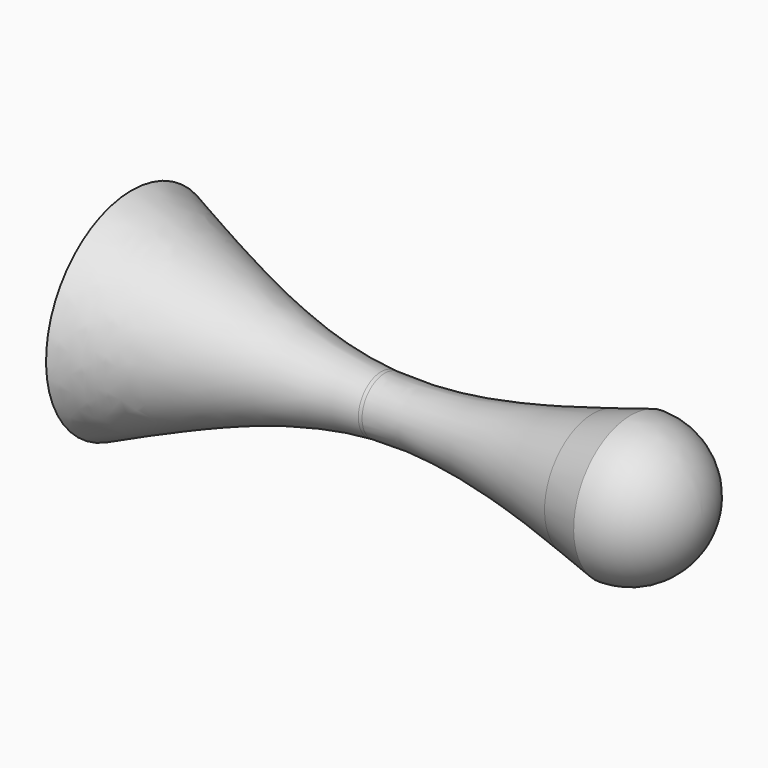
from build123d import *


with BuildPart() as f4:
    # F3 (on line) → F4 (revolve)
    with BuildSketch(Plane.XZ):
        with BuildLine():
            Line((-35, 21.3333358431), (-20, 21.3333358431))
            ThreePointArc((-20, 21.3333358431), (-21.0796887475, 26.9212634227), (-24.163324618, 31.7047613317))
            add(Edge.make_bspline(
                [(-24.163324618, 31.7047613317), (-27.7784521793, 33.1613796077), (-31.3892260896, 34.7473577254), (-35, 36.3333358431)],
                knots=[0.8433415755, 0.8433415755, 0.8433415755, 0.8433415755, 1, 1, 1, 1], degree=3))
            Line((-35, 36.3333358431), (-35, 21.3333358431))
        make_face()
        with BuildLine():
            Line((-20, 21.3333358431), (-4, 21.3333358431))
            ThreePointArc((-4, 21.3333358431), (-2.8284271247, 24.1617629679), (0, 25.3333358431))
            add(Edge.make_bspline(
                [(0, 25.3333358431), (-8.1075095608, 25.880336522), (-16.1461229596, 28.4744458698), (-24.163324618, 31.7047613317)],
                knots=[0.4959230795, 0.4959230795, 0.4959230795, 0.4959230795, 0.8433415755, 0.8433415755, 0.8433415755, 0.8433415755], degree=3))
            ThreePointArc((-24.163324618, 31.7047613317), (-21.0796887475, 26.9212634227), (-20, 21.3333358431))
        make_face()
        with BuildLine():
            Line((-4, 21.3333358431), (4, 21.3333358431))
            ThreePointArc((4, 21.3333358431), (2.9988951559, 23.9803394026), (0.496686078, 25.3023789192))
            add(Edge.make_bspline(
                [(0.496686078, 25.3023789192), (0.3310956054, 25.311852661), (0.1655334425, 25.322167567), (0, 25.3333358431)],
                knots=[0.4888297323, 0.4888297323, 0.4888297323, 0.4888297323, 0.4959230795, 0.4959230795, 0.4959230795, 0.4959230795], degree=3))
            ThreePointArc((0, 25.3333358431), (-2.8284271247, 24.1617629679), (-4, 21.3333358431))
        make_face()
        with BuildLine():
            Line((4, 21.3333358431), (25, 21.3333358431))
            ThreePointArc((25, 21.3333358431), (26.2536870024, 26.1812229033), (29.7004017896, 29.8135633641))
            add(Edge.make_bspline(
                [(29.7004017896, 29.8135633641), (19.9238413055, 27.0622303547), (10.1620389821, 24.7494059333), (0.496686078, 25.3023789192)],
                knots=[0.0747980423, 0.0747980423, 0.0747980423, 0.0747980423, 0.4888297323, 0.4888297323, 0.4888297323, 0.4888297323], degree=3))
            ThreePointArc((0.496686078, 25.3023789192), (2.9988951559, 23.9803394026), (4, 21.3333358431))
        make_face()
        with BuildLine():
            Line((25, 21.3333358431), (45, 21.3333358431))
            ThreePointArc((45, 21.3333358431), (42.0710678119, 28.404403655), (35, 31.3333358431))
            add(Edge.make_bspline(
                [(35, 31.3333358431), (33.233306708, 30.8219744482), (31.4666134161, 30.3106130533), (29.7004017896, 29.8135633641)],
                knots=[0, 0, 0, 0, 0.0747980423, 0.0747980423, 0.0747980423, 0.0747980423], degree=3))
            ThreePointArc((29.7004017896, 29.8135633641), (26.2536870024, 26.1812229033), (25, 21.3333358431))
        make_face()
    revolve(axis=Axis((-2.5, 0, 21.3333358431), (1, 0, 0)))


solid = f4.part
